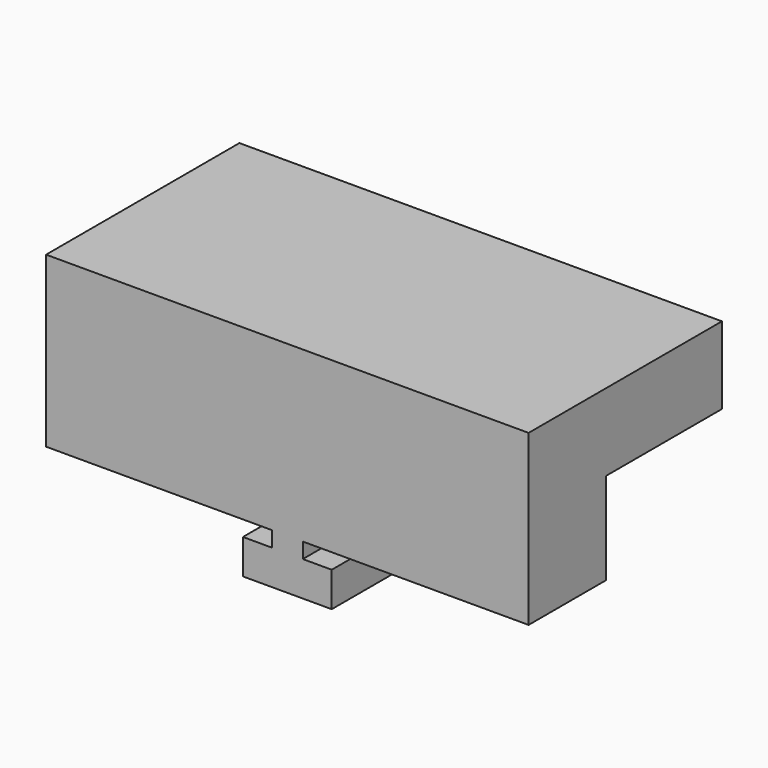
from build123d import *

# Parameters (mm, degrees)
F0_W     = 15.875
F0_H     = 3.175
F1_DEPTH = 5.5626
F2_W     = 15.875
F2_H     = 2.54
F3_DEPTH = 4.7752
F4_W     = 1.016
F4_H     = 3.175
F5_DEPTH = 0.508
F6_W     = 0.9525
F6_H     = 3.175
F6_W_2   = 1.016
F7_DEPTH = 1.143


with BuildPart() as f1:
    # F0 (on Top) → F1 (new body)
    with BuildSketch(Plane.XY):
        Rectangle(F0_W, F0_H)
    extrude(amount=F1_DEPTH)

    # F2 (on face) → F3 (join)
    with BuildSketch(Plane(origin=(0, 1.5875, 0), x_dir=(-1, 0, 0), z_dir=(0, 1, 0))):
        with Locations((0, 4.2926)):
            Rectangle(F2_W, F2_H)
    extrude(amount=F3_DEPTH)

    # F4 (on face) → F5 (join)
    with BuildSketch(Plane(origin=(0, 0, 0), x_dir=(1, 0, 0), z_dir=(0, 0, -1))):
        Rectangle(F4_W, F4_H)
    extrude(amount=F5_DEPTH)

    # F6 (on face) → F7 (join)
    with BuildSketch(Plane(origin=(0, 0, -0.508), x_dir=(1, 0, 0), z_dir=(0, 0, -1))):
        with Locations((0.98425, 0)):
            Rectangle(F6_W, F6_H)
        Rectangle(F6_W_2, F6_H)
        with Locations((-0.98425, 0)):
            Rectangle(F6_W, F6_H)
    extrude(amount=F7_DEPTH)


solid = f1.part
